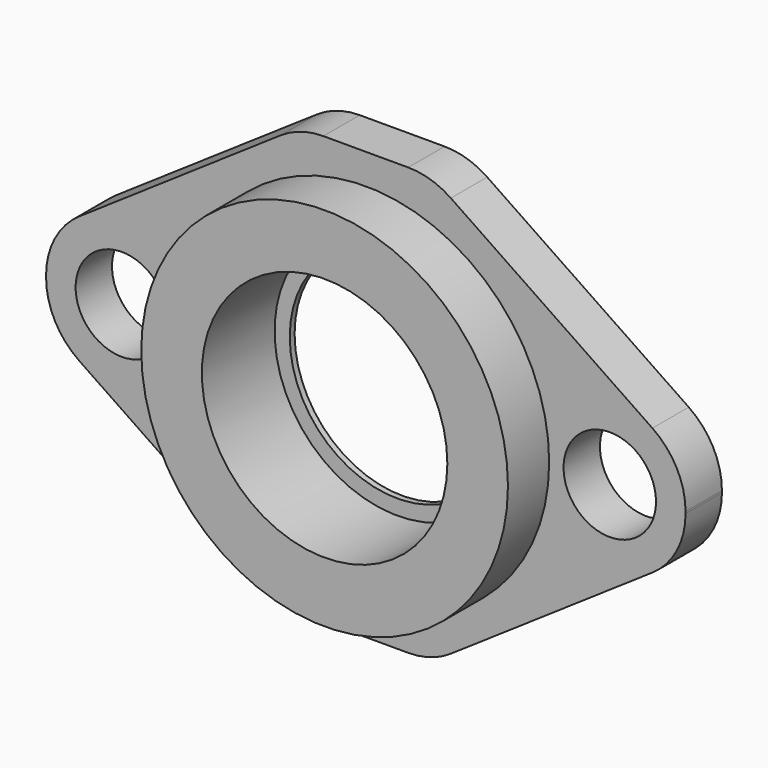
from build123d import *

# Parameters (mm, degrees)
F0_R     = 12.1
F0_R_2   = 8.1
F1_DEPTH = 6.4
F0_R_3   = 3.05
F2_DEPTH = 3
F3_R     = 8.1
F3_R_2   = 7.1
F4_DEPTH = 0.4


with BuildPart() as f1:
    # F0 (on Front) → F1 (new body)
    with BuildSketch(Plane.XZ):
        Circle(F0_R)
        Circle(F0_R_2, mode=Mode.SUBTRACT)
    extrude(amount=F1_DEPTH)

    # F0 (on Front) → F2 (join)
    with BuildSketch(Plane.XZ):
        with BuildLine():
            Line((-2.799697, -14.1), (2.799697, -14.1))
            ThreePointArc((2.799697, -14.1), (4.26998, -13.87894), (5.610256, -13.235306))
            Line((5.610256, -13.235306), (18.910559, -4.195761))
            ThreePointArc((18.910559, -4.195761), (20.518868, -2.400028), (21.1, -0.060455))
            Line((21.1, -0.060455), (21.1, 0.060455))
            ThreePointArc((21.1, 0.060455), (20.518868, 2.400028), (18.910559, 4.195761))
            Line((18.910559, 4.195761), (5.610256, 13.235306))
            ThreePointArc((5.610256, 13.235306), (4.26998, 13.87894), (2.799697, 14.1))
            Line((2.799697, 14.1), (-2.799697, 14.1))
            ThreePointArc((-2.799697, 14.1), (-4.26998, 13.87894), (-5.610256, 13.235306))
            Line((-5.610256, 13.235306), (-18.910559, 4.195761))
            ThreePointArc((-18.910559, 4.195761), (-20.518868, 2.400028), (-21.1, 0.060455))
            Line((-21.1, 0.060455), (-21.1, -0.060455))
            ThreePointArc((-21.1, -0.060455), (-20.518868, -2.400028), (-18.910559, -4.195761))
            Line((-18.910559, -4.195761), (-5.610256, -13.235306))
            ThreePointArc((-5.610256, -13.235306), (-4.26998, -13.87894), (-2.799697, -14.1))
        make_face()
        with Locations((-16.1, 0)):
            Circle(F0_R_3, mode=Mode.SUBTRACT)
        Circle(F0_R, mode=Mode.SUBTRACT)
        with Locations((16.1, 0)):
            Circle(F0_R_3, mode=Mode.SUBTRACT)
    extrude(amount=F2_DEPTH)

    # F3 (on face) → F4 (join)
    with BuildSketch(Plane(origin=(0, 0, 0), x_dir=(-1, 0, 0), z_dir=(0, 1, 0))):
        Circle(F3_R)
        Circle(F3_R_2, mode=Mode.SUBTRACT)
    extrude(amount=-F4_DEPTH)


solid = f1.part
